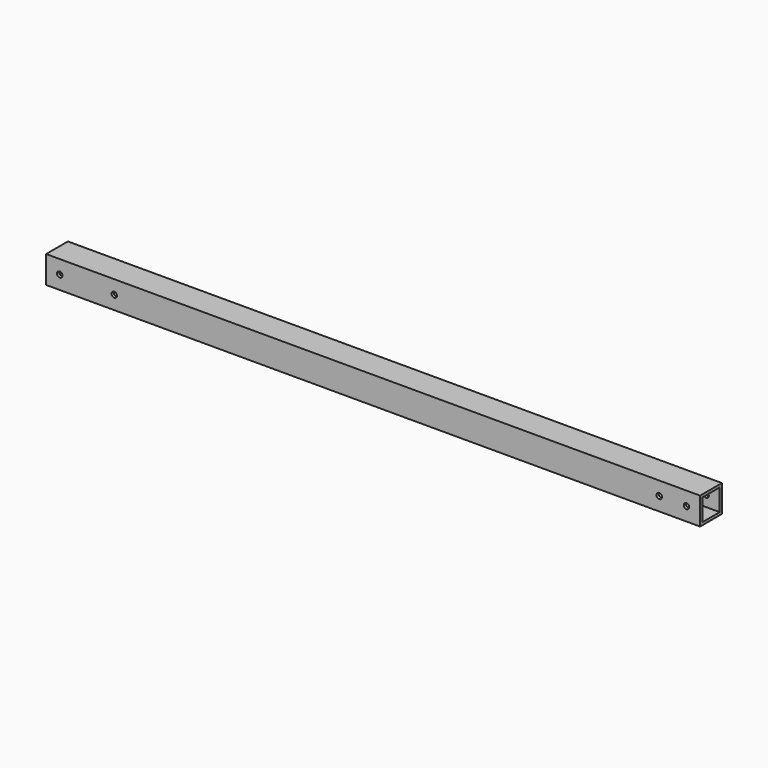
from build123d import *

# Parameters (mm, degrees)
F0_W     = 609.6
F0_H     = 25.4
F1_DEPTH = 25.4
F2_W     = 20.32
F2_H     = 20.32
F3_DEPTH = 609.6
F4_R     = 2.5527
F5_DEPTH = 25.4


with BuildPart() as f1:
    # F0 (on Front) → F1 (new body)
    with BuildSketch(Plane.XZ):
        with Locations((209.717386, 30.944633)):
            Rectangle(F0_W, F0_H)
    extrude(amount=F1_DEPTH)

    # F2 (on face) → F3 (cut)
    with BuildSketch(Plane(origin=(-95.082614, 0, 0), x_dir=(0, -1, 0), z_dir=(-1, 0, 0))):
        with Locations((12.7, 30.944633)):
            Rectangle(F2_W, F2_H)
    extrude(amount=-F3_DEPTH, mode=Mode.SUBTRACT)

    # F4 (on face) → F5 (cut)
    with BuildSketch(Plane.XZ.offset(25.4)):
        with Locations((501.817386, 30.944633)):
            Circle(F4_R)
        with Locations((476.417386, 30.944633)):
            Circle(F4_R)
        with Locations((-82.382614, 30.944633)):
            Circle(F4_R)
        with Locations((-31.582614, 30.944633)):
            Circle(F4_R)
    extrude(amount=-F5_DEPTH, mode=Mode.SUBTRACT)


solid = f1.part
